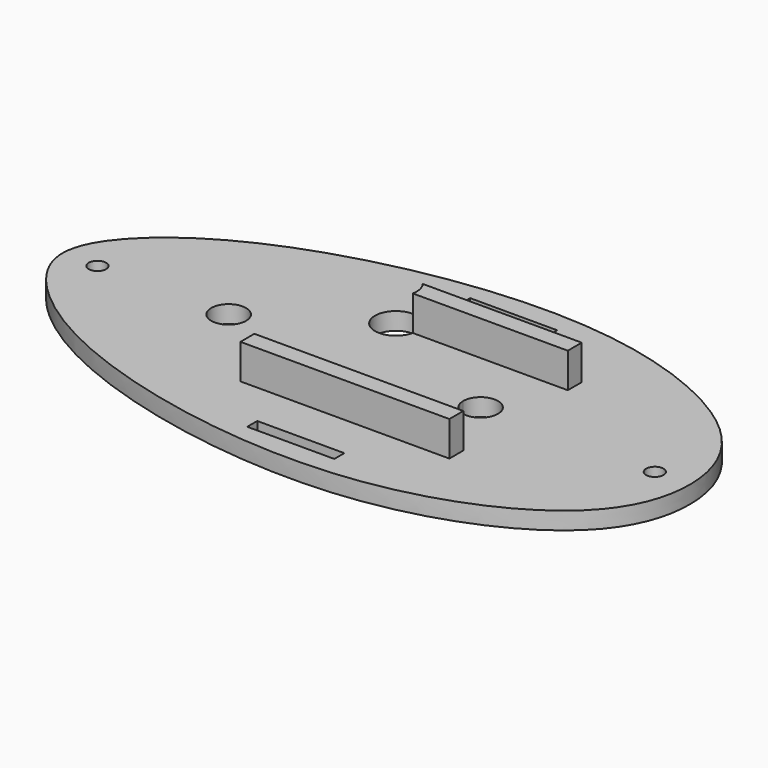
from build123d import *

# Parameters (mm, degrees)
F0_W     = 15.876858935
F0_H     = 2.286
F0_W_2   = 38.1000000002
F0_H_2   = 3.175
F0_W_3   = 15.8758046778
F1_DEPTH = 3.175
F2_DEPTH = 9.525


with BuildPart() as f1:
    # F0 (on Top) → F1 (new body)
    with BuildSketch(Plane.XY):
        with BuildLine():
            Line((15.8677943845, 0), (-23.7076027334, 0))
            ThreePointArc((-23.7076027334, 0), (-26.8826027334, -3.175), (-30.0576027334, 0))
            Line((-30.0576027334, 0), (-49.2266940624, 0))
            ThreePointArc((-49.2266940624, 0), (-50.8141940624, -1.5875), (-52.4016940624, 0))
            Line((-52.4016940624, 0), (-57.1641940624, 0))
            add(Edge.make_bspline(
                [(57.1768239528, 0), (57.1770156094, -5.2627414961), (52.5796635598, -18.1740612651), (18.4726643687, -32.7278489429), (-26.5642703947, -26.2041477461), (-50.8830626651, -13.1851822393), (-57.1641936658, -3.8166041807), (-57.1641940624, 0)],
                knots=[0.5000113186, 0.5000113186, 0.5000113186, 0.5000113186, 0.5793319877, 0.6945471525, 0.8277851465, 0.929849225, 1, 1, 1, 1], degree=3))
            Line((57.1768239528, 0), (52.4143239528, 0))
            ThreePointArc((52.4143239528, 0), (50.8268239528, -1.5875), (49.2393239528, 0))
            Line((49.2393239528, 0), (22.2177314709, 0))
            ThreePointArc((22.2177314709, 0), (19.0427629277, -3.1608667109), (15.8677943845, 0))
        make_face()
        with Locations((4.7642341302, -24.2581772995)):
            Rectangle(F0_W, F0_H, mode=Mode.SUBTRACT)
        with Locations((6.3768239537, -13.493750001)):
            Rectangle(F0_W_2, F0_H_2, mode=Mode.SUBTRACT)
        with BuildLine():
            ThreePointArc((-30.0576027334, 0), (-26.8826027334, 3.175), (-23.7076027334, 0))
            Line((-23.7076027334, 0), (15.8677943845, 0))
            ThreePointArc((15.8677943845, 0), (19.0356962657, 3.1891254249), (22.2177629277, 0.0141332891))
            ThreePointArc((22.2177629277, 0.0141332891), (22.2177550635, 0.007066627), (22.2177314709, 0))
            Line((22.2177314709, 0), (49.2393239528, 0))
            ThreePointArc((49.2393239528, 0), (50.8268239528, 1.5875), (52.4143239528, 0))
            Line((52.4143239528, 0), (57.1768239528, 0))
            add(Edge.make_bspline(
                [(-57.1641940624, 0), (-57.1641944589, 3.8166041807), (-50.883065405, 13.1869760393), (-26.5639162211, 26.1936810476), (18.4761240651, 32.7776202088), (52.5779045209, 18.1666423493), (57.1766322962, 5.2627414961), (57.1768239528, 0)],
                knots=[0, 0, 0, 0, 0.070150775, 0.1722148535, 0.3054570544, 0.4206906495, 0.5000113186, 0.5000113186, 0.5000113186, 0.5000113186], degree=3))
            Line((-57.1641940624, 0), (-52.4016940624, 0))
            ThreePointArc((-52.4016940624, 0), (-50.8141940624, 1.5875), (-49.2266940624, 0))
            Line((-49.2266940624, 0), (-30.0576027334, 0))
        make_face()
        with BuildLine():
            ThreePointArc((-2.8391045245, 11.906250005), (-10.2735261014, 11.8502858718), (-3.5776596946, 15.081250005))
            Line((-3.5776596946, 15.081250005), (25.4268239538, 15.081250005))
            Line((25.4268239538, 15.081250005), (25.4268239538, 11.906250005))
            Line((25.4268239538, 11.906250005), (-2.8391045245, 11.906250005))
        make_face(mode=Mode.SUBTRACT)
        with Locations((4.7647612588, 24.2588748922)):
            Rectangle(F0_W_3, F0_H, mode=Mode.SUBTRACT)
    extrude(amount=F1_DEPTH)

    # F0 (on Top) → F2 (join)
    with BuildSketch(Plane.XY):
        with BuildLine():
            ThreePointArc((-3.5776596946, 15.081250005), (-2.9647747096, 13.9671932499), (-2.7526027334, 12.7135052858))
            ThreePointArc((-2.7526027334, 12.7135052858), (-2.7742899047, 12.3075669752), (-2.8391045245, 11.906250005))
            Line((-2.8391045245, 11.906250005), (25.4268239538, 11.906250005))
            Line((25.4268239538, 11.906250005), (25.4268239538, 15.081250005))
            Line((25.4268239538, 15.081250005), (-3.5776596946, 15.081250005))
        make_face()
        with Locations((6.3768239537, -13.493750001)):
            Rectangle(F0_W_2, F0_H_2)
    extrude(amount=F2_DEPTH)


solid = f1.part
